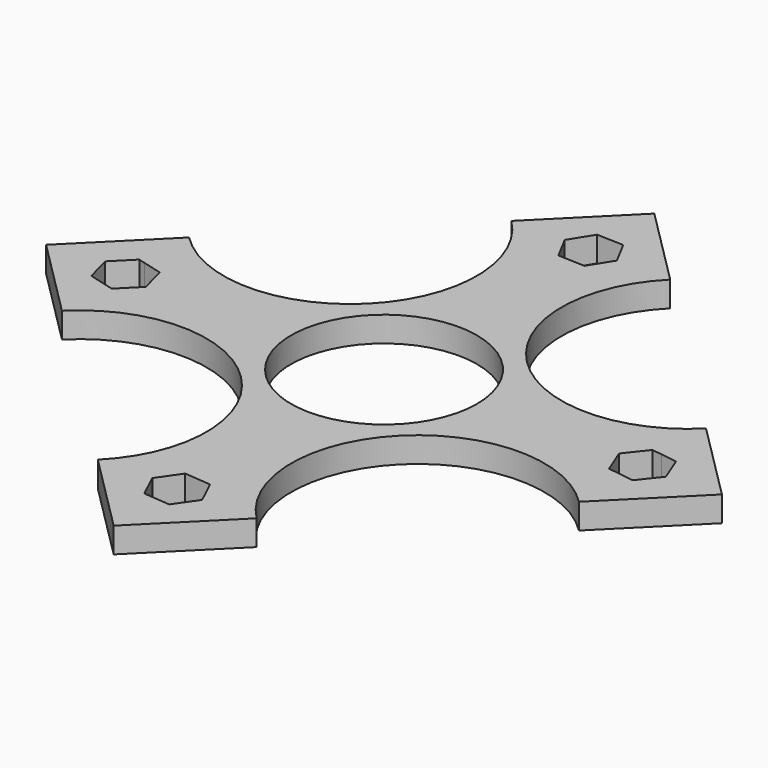
from build123d import *

# Parameters (mm, degrees)
F1_DEPTH = 3


with BuildPart() as f1:
    # F0 (on Top) → F1 (new body)
    with BuildSketch(Plane.XY):
        with BuildLine():
            Line((9.401522079, 30.598477921), (0, 40))
            Line((0, 40), (-9.401522079, 30.598477921))
            ThreePointArc((-9.401522079, 30.598477921), (-9.401522079, 9.401522079), (-30.598477921, 9.401522079))
            Line((-30.598477921, 9.401522079), (-40, 0))
            Line((-40, 0), (-30.598477921, -9.401522079))
            ThreePointArc((-30.598477921, -9.401522079), (-9.401522079, -9.401522079), (-9.401522079, -30.598477921))
            Line((-9.401522079, -30.598477921), (0, -40))
            Line((0, -40), (9.401522079, -30.598477921))
            ThreePointArc((9.401522079, -30.598477921), (9.401522079, -9.401522079), (30.598477921, -9.401522079))
            Line((30.598477921, -9.401522079), (40, 0))
            Line((40, 0), (30.598477921, 9.401522079))
            ThreePointArc((30.598477921, 9.401522079), (9.401522079, 9.401522079), (9.401522079, 30.598477921))
        make_face()
        Polygon((-3.0391439764, -30.598477921), (-3.1642692031, -30.33251976), (-1.3518080778, -27.7251613261), (1.8124611253, -27.9911194871), (3.0391439764, -30.598477921), (3.1642692031, -30.864436082), (1.3518080778, -33.4717945158), (-1.8124611253, -33.2058363548), align=None, mode=Mode.SUBTRACT)
        Polygon((-32.8438435185, -2.2453655976), (-33.665704368, 0.8218608495), (-31.4203387705, 3.067226447), (-30.598477921, 2.8470094961), (-28.3531123234, 2.2453655976), (-27.5312514739, -0.8218608495), (-29.7766170715, -3.067226447), (-30.598477921, -2.8470094961), align=None, mode=Mode.SUBTRACT)
        with BuildLine():
            ThreePointArc((-11, 0), (0, 11), (11, 0))
            ThreePointArc((11, 0), (0, -11), (-11, 0))
        make_face(mode=Mode.SUBTRACT)
        Polygon((28.6274454507, -2.4896514484), (27.456860285, 0.4621384668), (29.4278927552, 2.9517899151), (30.598477921, 2.7795944107), (32.5695103912, 2.4896514484), (33.740095557, -0.4621384668), (31.7690630867, -2.9517899151), (30.598477921, -2.7795944107), align=None, mode=Mode.SUBTRACT)
        Polygon((-3.1148920699, 30.598477921), (-3.17351374, 30.7086771754), (-1.4913215162, 33.4019210662), (1.6821922238, 33.2917218118), (3.1148920699, 30.598477921), (3.17351374, 30.4882786665), (1.4913215162, 27.7950347757), (-1.6821922238, 27.9052340301), align=None, mode=Mode.SUBTRACT)
    extrude(amount=F1_DEPTH)


solid = f1.part
